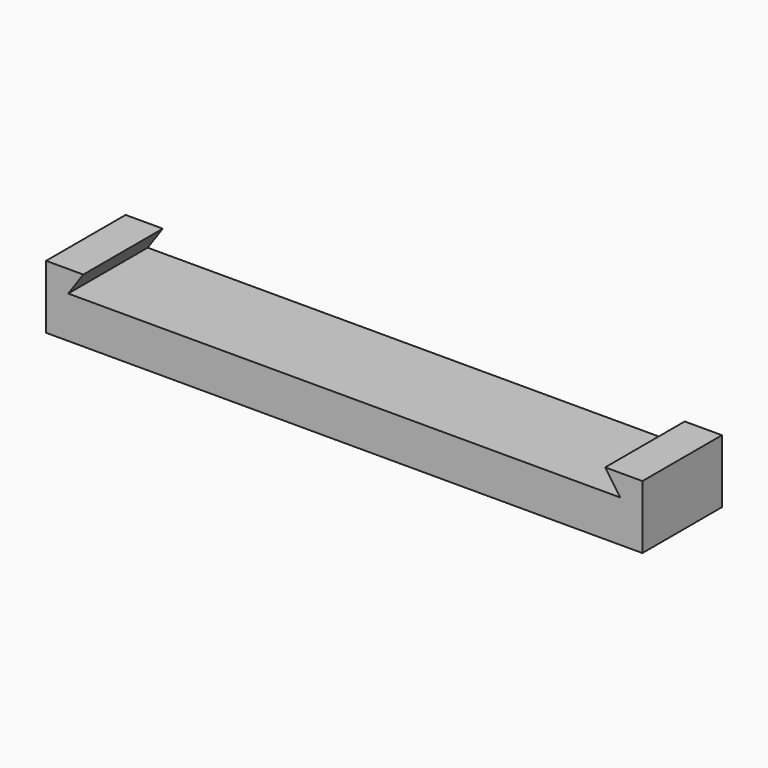
from build123d import *

# Parameters (mm, degrees)
F0_W     = 76.2
F0_H     = 12.7
F1_DEPTH = 5.334
F3_DEPTH = 12.7
F4_R     = 3.8
F5_DEPTH = 1


with BuildPart() as f1:
    # F0 (on Top) → F1 (new body)
    with BuildSketch(Plane.XY):
        with Locations((-2.639927, -2.647982)):
            Rectangle(F0_W, F0_H)
    extrude(amount=F1_DEPTH)

    # F2 (on face) → F3 (join, through all)
    with BuildSketch(Plane.XZ.offset(8.997982)):
        Polygon((-40.739927, 5.334), (-37.917357, 5.334), (-35.98541, 8.101238), (-40.739927, 8.101238), align=None)
        Polygon((30.705556, 8.101238), (32.637503, 5.334), (35.460073, 5.334), (35.460073, 8.101238), align=None)
    extrude(amount=-F3_DEPTH)

    # F4 (on face) → F5 (cut)
    with BuildSketch(Plane(origin=(0, 0, 0), x_dir=(1, 0, 0), z_dir=(0, 0, -1))):
        with Locations((-31.556085, 2.647982)):
            Circle(F4_R)
        with Locations((26.276231, 2.647982)):
            Circle(F4_R)
    extrude(amount=-F5_DEPTH, mode=Mode.SUBTRACT)


solid = f1.part
